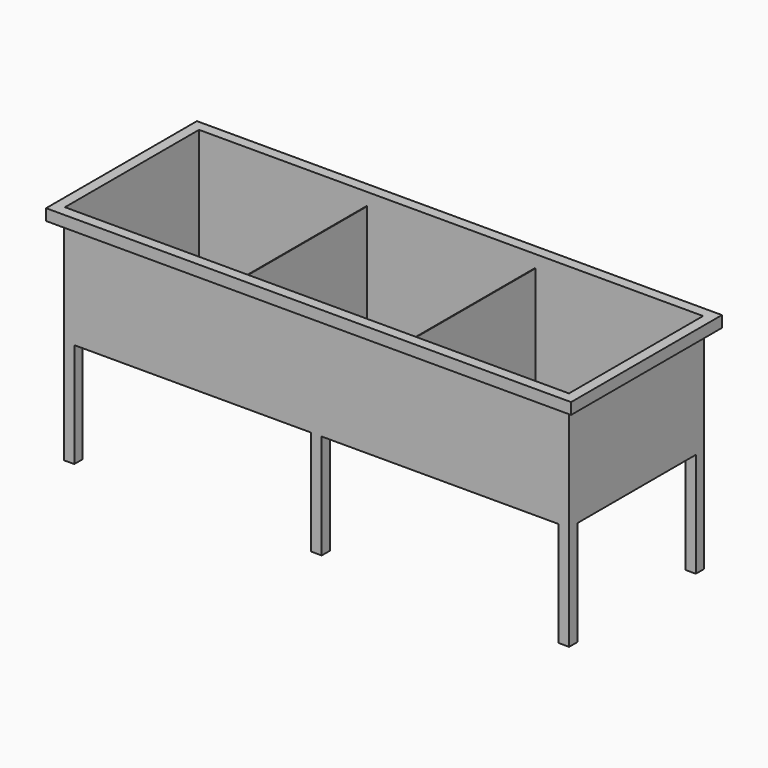
from build123d import *

# Parameters (mm, degrees)
F0_W      = 2412
F0_H      = 806
F1_DEPTH  = 563
F2_T      = -3
F3_W      = 3
F3_H      = 800
F4_DEPTH  = 500
F5_W      = 2506
F5_H      = 900
F5_W_2    = 2412
F5_H_2    = 806
F6_DEPTH  = 4
F7_R      = 25
F8_DEPTH  = 25
F9_R      = 27
F9_R_2    = 25
F10_DEPTH = 50
F11_W     = 2506
F11_H     = 900
F11_W_2   = 2500
F11_H_2   = 894
F12_DEPTH = 50
F13_W     = 50
F13_H     = 50
F14_DEPTH = 500


with BuildPart() as f1:
    # F0 (on Top) → F1 (new body)
    with BuildSketch(Plane.XY):
        with Locations((-1206, -403)):
            Rectangle(F0_W, F0_H)
    extrude(amount=-F1_DEPTH)

    # F2
    f2_openings = [f1.faces().sort_by_distance(p)[0] for p in [
        (-1206, -403, 0),
    ]]
    offset(amount=F2_T, openings=f2_openings)

    # F3 (on face) → F4 (join)
    with BuildSketch(Plane.XY.offset(-560)):
        with Locations((-1607.5, -403)):
            Rectangle(F3_W, F3_H)
        with Locations((-804.5, -403)):
            Rectangle(F3_W, F3_H)
    extrude(amount=F4_DEPTH)

    # F5 (on face) → F6 (join)
    with BuildSketch(Plane.XY):
        with Locations((-1206, -403)):
            Rectangle(F5_W, F5_H)
        with Locations((-1206, -403)):
            Rectangle(F5_W_2, F5_H_2, mode=Mode.SUBTRACT)
    extrude(amount=-F6_DEPTH)

    # F7 (on face) → F8 (cut)
    with BuildSketch(Plane.XY.offset(-560)):
        with Locations((-2009, -403)):
            Circle(F7_R)
        with Locations((-1206, -403)):
            Circle(F7_R)
        with Locations((-403, -403)):
            Circle(F7_R)
    extrude(amount=-F8_DEPTH, mode=Mode.SUBTRACT)

    # F9 (on face) → F10 (join)
    with BuildSketch(Plane(origin=(0, 0, -563), x_dir=(1, 0, 0), z_dir=(0, 0, -1))):
        with Locations((-1206, 403)):
            Circle(F9_R)
        with Locations((-1206, 403)):
            Circle(F9_R_2, mode=Mode.SUBTRACT)
        with Locations((-2009, 403)):
            Circle(F9_R)
        with Locations((-2009, 403)):
            Circle(F9_R_2, mode=Mode.SUBTRACT)
        with Locations((-403, 403)):
            Circle(F9_R)
        with Locations((-403, 403)):
            Circle(F9_R_2, mode=Mode.SUBTRACT)
    extrude(amount=F10_DEPTH)

    # F11 (on face) → F12 (join)
    with BuildSketch(Plane(origin=(0, 0, -4), x_dir=(1, 0, 0), z_dir=(0, 0, -1))):
        with Locations((-1206, 403)):
            Rectangle(F11_W, F11_H)
        with Locations((-1206, 403)):
            Rectangle(F11_W_2, F11_H_2, mode=Mode.SUBTRACT)
    extrude(amount=F12_DEPTH)

    # F13 (on face) → F14 (join)
    with BuildSketch(Plane(origin=(0, 0, -563), x_dir=(1, 0, 0), z_dir=(0, 0, -1))):
        with Locations((-2387, 781)):
            Rectangle(F13_W, F13_H)
        with Locations((-2387, 25)):
            Rectangle(F13_W, F13_H)
        with Locations((-25, 781)):
            Rectangle(F13_W, F13_H)
        with Locations((-25, 25)):
            Rectangle(F13_W, F13_H)
        with Locations((-1206, 781)):
            Rectangle(F13_W, F13_H)
        with Locations((-1206, 25)):
            Rectangle(F13_W, F13_H)
    extrude(amount=F14_DEPTH)


solid = f1.part
